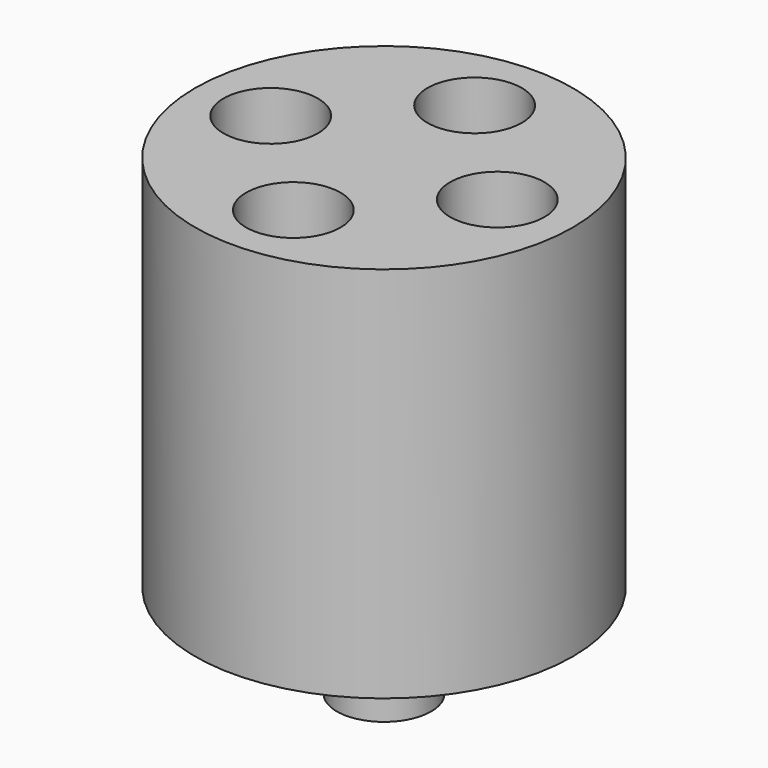
from build123d import *

# Parameters (mm, degrees)
F0_R     = 50
F1_DEPTH = 100
F2_R     = 12.5
F3_DEPTH = 25
F5_D     = 10
F5_DEPTH = 25
F5_TIP   = 3.0043030951
F6_R     = 12.5
F7_DEPTH = 80


with BuildPart() as f1:
    # F0 (on Top) → F1 (new body)
    with BuildSketch(Plane.XY):
        Circle(F0_R)
    extrude(amount=F1_DEPTH)

    # F2 (on face) → F3 (join)
    with BuildSketch(Plane(origin=(0, 0, 0), x_dir=(1, 0, 0), z_dir=(0, 0, -1))):
        Circle(F2_R)
    extrude(amount=F3_DEPTH)

    # F5
    with Locations(Plane(origin=(0, 0, -25), x_dir=(1, 0, 0), z_dir=(0, 0, -1))):
        with Locations((0, 0)):
            Hole(F5_D / 2, depth=F5_DEPTH)
            with Locations((0, 0, -(F5_DEPTH + F5_TIP / 2))):  # 118° drill point
                Cone(0, F5_D / 2, F5_TIP, mode=Mode.SUBTRACT)

    # F6 (on face) → F7 (cut)
    with BuildSketch(Plane.XY.offset(100)):
        with Locations((-30, 0)):
            Circle(F6_R)
        with Locations((0, -30)):
            Circle(F6_R)
        with Locations((30, 0)):
            Circle(F6_R)
        with Locations((0, 30)):
            Circle(F6_R)
    extrude(amount=-F7_DEPTH, mode=Mode.SUBTRACT)


solid = f1.part
